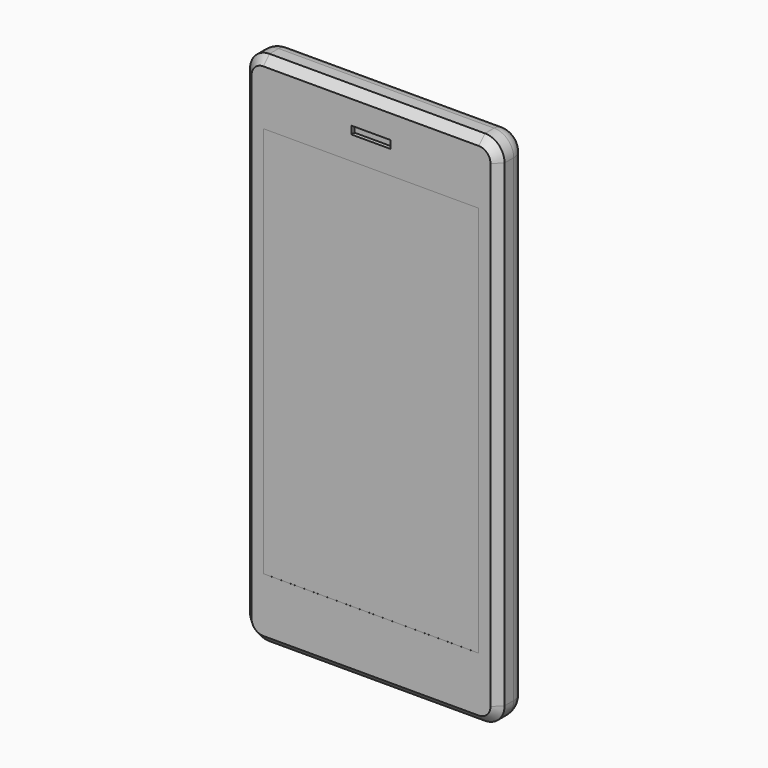
from build123d import *

# Parameters (mm, degrees)
F0_W     = 65
F0_H     = 132
F1_DEPTH = 8.9
F2_R     = 5
F3_R     = 4
F4_SIZE  = 2
F6_W     = 55
F6_H     = 100
F7_DEPTH = 0.01
F8_W     = 10
F8_H     = 2
F9_DEPTH = 1


with BuildPart() as f1:
    # F0 (on Front) → F1 (new body)
    with BuildSketch(Plane.XZ):
        Rectangle(F0_W, F0_H)
    extrude(amount=F1_DEPTH)

    # F2
    f2_edges = [f1.edges().sort_by_distance(p)[0] for p in [
        (-32.5, -4.45, 66),
        (32.5, -4.45, 66),
        (32.5, -4.45, -66),
        (-32.5, -4.45, -66),
    ]]
    fillet(f2_edges, radius=F2_R)

    # F3
    f3_edges = [f1.edges().sort_by_distance(p)[0] for p in [
        (32.5, 0, 0),
    ]]
    fillet(f3_edges, radius=F3_R)

    # F4
    f4_edges = [f1.edges().sort_by_distance(p)[0] for p in [
        (32.5, -8.9, 0),
    ]]
    chamfer(f4_edges, length=F4_SIZE)

    # F6 (on face) → F7 (cut)
    with BuildSketch(Plane.XZ.offset(8.9)):
        Rectangle(F6_W, F6_H)
    extrude(amount=-F7_DEPTH, mode=Mode.SUBTRACT)

    # F8 (on face) → F9 (cut)
    with BuildSketch(Plane.XZ.offset(8.9)):
        with Locations((0, 57)):
            Rectangle(F8_W, F8_H)
    extrude(amount=-F9_DEPTH, mode=Mode.SUBTRACT)


solid = f1.part
